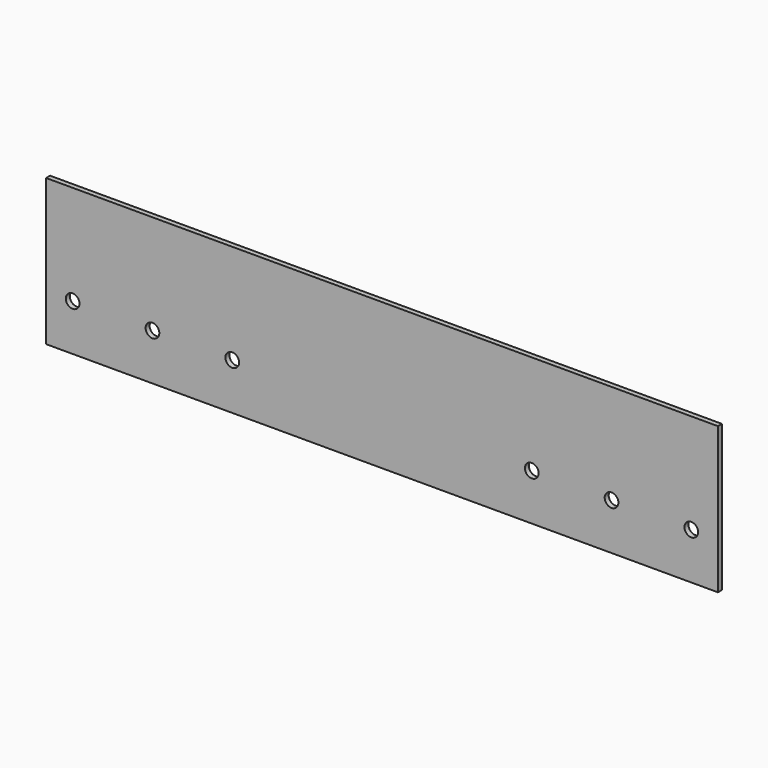
from build123d import *

# Parameters (mm, degrees)
F0_W     = 641.604
F0_H     = 139.7
F0_R     = 6.5405
F1_DEPTH = 4.7752


with BuildPart() as f1:
    # F0 (on Front) → F1 (new body)
    with BuildSketch(Plane.XZ):
        Rectangle(F0_W, F0_H)
        with Locations((-295.402, -25.4)):
            Circle(F0_R, mode=Mode.SUBTRACT)
        with Locations((-219.202, -25.4)):
            Circle(F0_R, mode=Mode.SUBTRACT)
        with Locations((-143.002, -25.4)):
            Circle(F0_R, mode=Mode.SUBTRACT)
        with Locations((143.002, -25.4)):
            Circle(F0_R, mode=Mode.SUBTRACT)
        with Locations((219.202, -25.4)):
            Circle(F0_R, mode=Mode.SUBTRACT)
        with Locations((295.402, -25.4)):
            Circle(F0_R, mode=Mode.SUBTRACT)
    extrude(amount=-F1_DEPTH)


solid = f1.part
